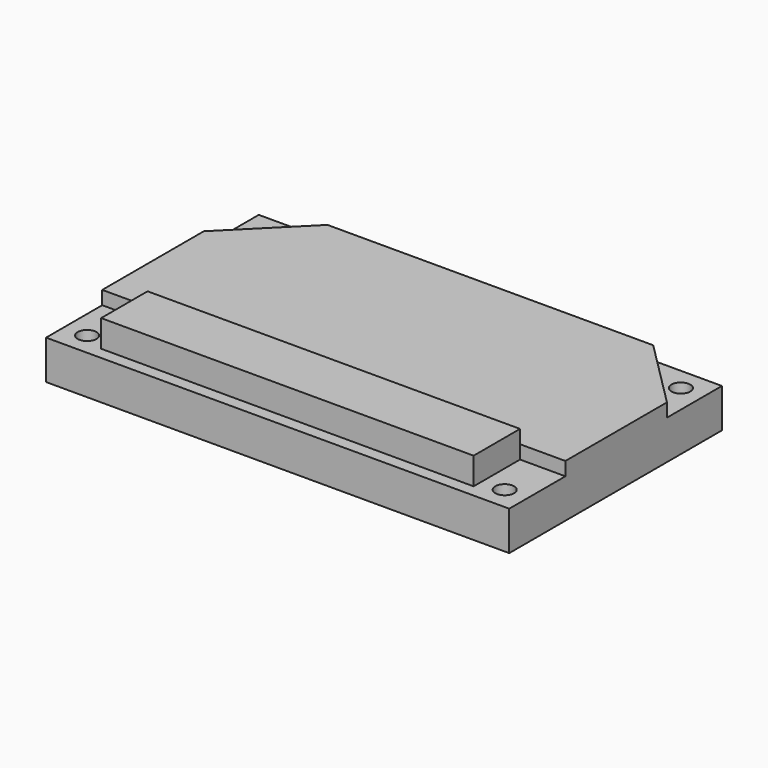
from build123d import *

# Parameters (mm, degrees)
F0_W     = 87.1728
F0_H     = 50.038
F1_DEPTH = 7.366
F3_DEPTH = 2.54
F4_W     = 70.104
F4_H     = 10.922
F5_DEPTH = 5.08
F6_R     = 1.778
F7_DEPTH = 7.367


with BuildPart() as f1:
    # F0 (on Top) → F1 (new body)
    with BuildSketch(Plane.XY):
        with Locations((43.5864, 25.019)):
            Rectangle(F0_W, F0_H)
    extrude(amount=F1_DEPTH)

    # F2 (on face) → F3 (join)
    with BuildSketch(Plane.XY.offset(7.366)):
        Polygon((0, 37.106431), (0, 13.208), (87.1728, 13.208), (87.1728, 37.106431), (74.241231, 50.038), (12.931569, 50.038), align=None)
    extrude(amount=F3_DEPTH)

    # F4 (on face) → F5 (join)
    with BuildSketch(Plane.XY.offset(7.366)):
        with Locations((43.5864, 7.747)):
            Rectangle(F4_W, F4_H)
    extrude(amount=F5_DEPTH)

    # F6 (on face) → F7 (cut, through all)
    with BuildSketch(Plane.XY.offset(7.366)):
        with Locations((4.2926, 45.7454)):
            Circle(F6_R)
        with Locations((4.2926, 4.2926)):
            Circle(F6_R)
        with Locations((82.8802, 4.2926)):
            Circle(F6_R)
        with Locations((82.8802, 45.7454)):
            Circle(F6_R)
    extrude(amount=-F7_DEPTH, mode=Mode.SUBTRACT)


solid = f1.part
